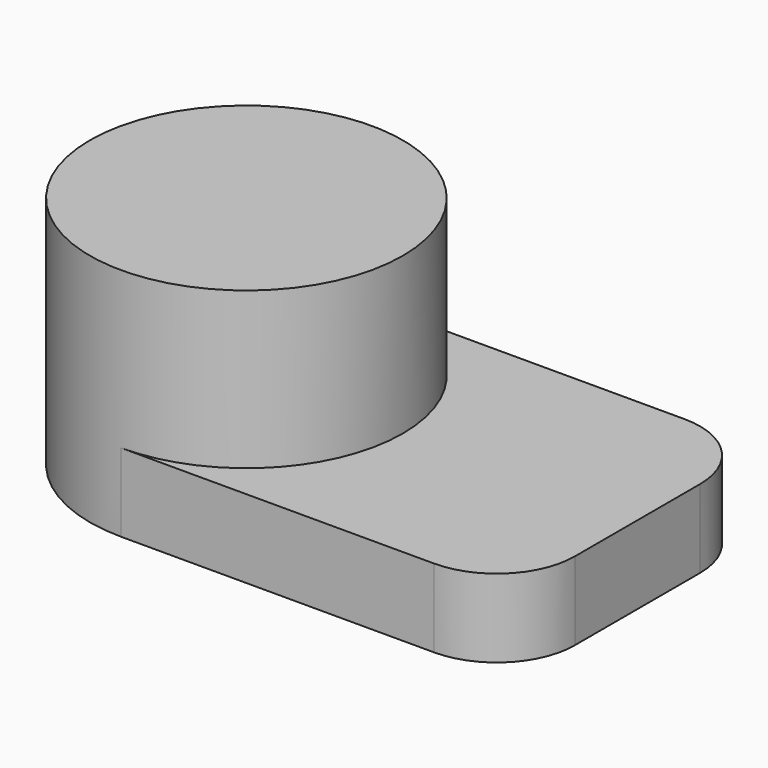
from build123d import *

# Parameters (mm, degrees)
F0_R     = 12.7
F1_DEPTH = 19.05
F3_DEPTH = 6.35


with BuildPart() as f1:
    # F0 (on Top) → F1 (new body)
    with BuildSketch(Plane.XY):
        with Locations((12.7, 0)):
            Circle(F0_R)
    extrude(amount=F1_DEPTH)

    # F2 (on Top) → F3 (join)
    with BuildSketch(Plane.XY):
        with BuildLine():
            Line((12.7, 12.7), (12.7, -12.7))
            Line((12.7, -12.7), (38.1, -12.7))
            ThreePointArc((38.1, -12.7), (42.590128, -10.840128), (44.45, -6.35))
            Line((44.45, -6.35), (44.45, 6.35))
            ThreePointArc((44.45, 6.35), (42.590128, 10.840128), (38.1, 12.7))
            Line((38.1, 12.7), (12.7, 12.7))
        make_face()
    extrude(amount=F3_DEPTH)


solid = f1.part
